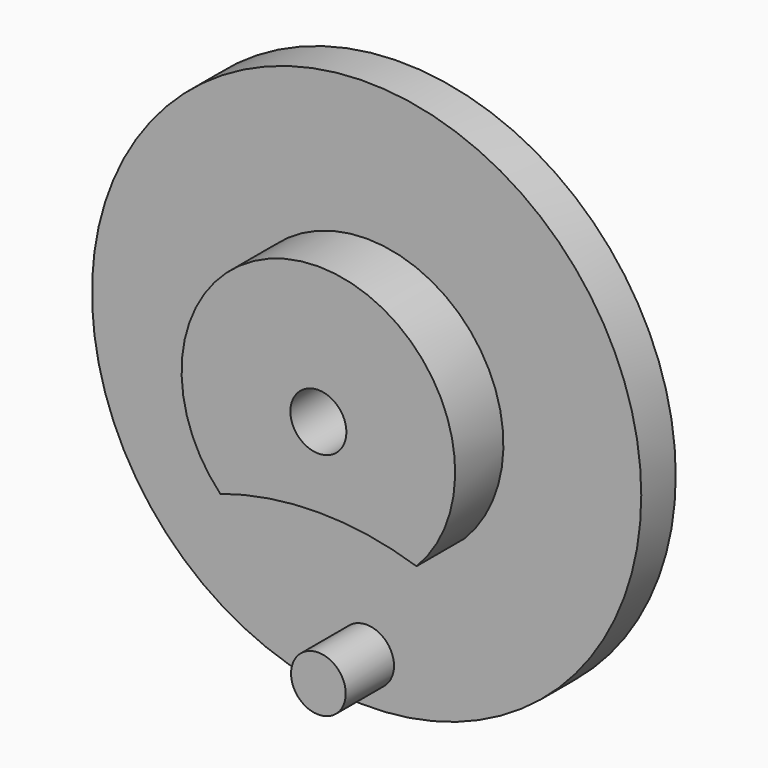
from build123d import *

# Parameters (mm, degrees)
F1_R          = 63.75
F2_DEPTH      = 10
F3_R          = 6.35
F4_DEPTH      = 14
F5_R          = 6.5
F6_DEPTH      = 10.001
F6_DEPTH_BACK = 14.001
F7_SIZE       = 2


with BuildPart() as f2:
    # F1 (on Front) → F2 (new body)
    with BuildSketch(Plane.XZ):
        Circle(F1_R)
    extrude(amount=-F2_DEPTH)

    # F3 (on Front) → F4 (join)
    with BuildSketch(Plane.XZ):
        with BuildLine():
            ThreePointArc((-22.7778931025, -22.1185461957), (0, -18.5), (22.7778931025, -22.1185461957))
            ThreePointArc((22.7778931025, -22.1185461957), (0, 31.75), (-22.7778931025, -22.1185461957))
        make_face()
        with Locations((0, -53.5)):
            Circle(F3_R)
    extrude(amount=F4_DEPTH)

    # F5 (on Front) → F6 (cut, two sides)
    with BuildSketch(Plane.XZ) as f6_sk:
        Circle(F5_R)
    extrude(amount=-F6_DEPTH, mode=Mode.SUBTRACT)
    extrude(f6_sk.sketch, amount=F6_DEPTH_BACK, mode=Mode.SUBTRACT)

    # F7
    f7_edges = [f2.edges().sort_by_distance(p)[0] for p in [
        (-6.5, 10, 0),
    ]]
    chamfer(f7_edges, length=F7_SIZE)


solid = f2.part
